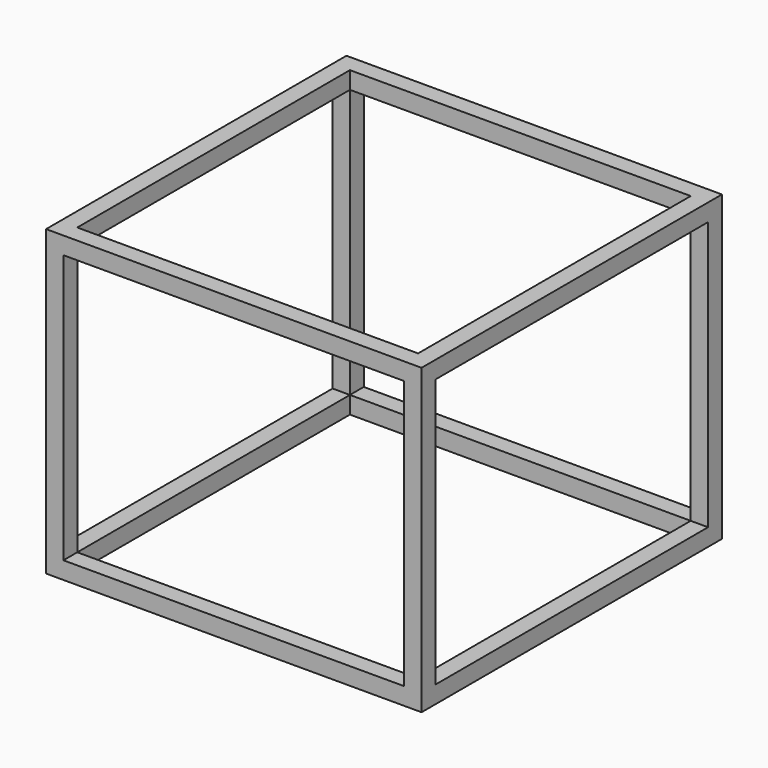
from build123d import *

# Parameters (mm, degrees)
BOX006_W     = 650
BOX006_H     = 30
BOX006_DEPTH = 30
BOX007_W     = 650
BOX007_H     = 30
BOX007_DEPTH = 30
BOX008_W     = 30
BOX008_H     = 650
BOX008_DEPTH = 30
BOX005_W     = 30
BOX005_H     = 650
BOX005_DEPTH = 30
BOX004_W     = 30
BOX004_H     = 30
BOX004_DEPTH = 525
BOX003_W     = 30
BOX003_H     = 30
BOX003_DEPTH = 525
BOX002_W     = 30
BOX002_H     = 30
BOX002_DEPTH = 525
BOX001_W     = 30
BOX001_H     = 30
BOX001_DEPTH = 525
BOX010_W     = 650
BOX010_H     = 30
BOX010_DEPTH = 30
BOX011_W     = 650
BOX011_H     = 30
BOX011_DEPTH = 30
BOX012_W     = 30
BOX012_H     = 650
BOX012_DEPTH = 30
BOX009_W     = 30
BOX009_H     = 650
BOX009_DEPTH = 30


with BuildPart() as box006:
    # Box006 → Box006 (new body)
    with BuildSketch(Plane.XY):
        with Locations((325, 15)):
            Rectangle(BOX006_W, BOX006_H)
    extrude(amount=BOX006_DEPTH)


with BuildPart() as box007:
    # Box007 → Box007 (new body)
    with BuildSketch(Plane(origin=(0, 620, 0), x_dir=(1, 0, 0), z_dir=(0, 0, 1))):
        with Locations((325, 15)):
            Rectangle(BOX007_W, BOX007_H)
    extrude(amount=BOX007_DEPTH)


with BuildPart() as box008:
    # Box008 → Box008 (new body)
    with BuildSketch(Plane(origin=(620, 0, 0), x_dir=(1, 0, 0), z_dir=(0, 0, 1))):
        with Locations((15, 325)):
            Rectangle(BOX008_W, BOX008_H)
    extrude(amount=BOX008_DEPTH)


with BuildPart() as obj1:
    # Box005 → Box005 (new body)
    with BuildSketch(Plane.XY):
        with Locations((15, 325)):
            Rectangle(BOX005_W, BOX005_H)
    extrude(amount=BOX005_DEPTH)

    # Fusion: union Box006, Box007, Box008
    add(box006.part)
    add(box007.part)
    add(box008.part)


with BuildPart() as box004:
    # Box004 → Box004 (new body)
    with BuildSketch(Plane(origin=(0, 620, 0), x_dir=(1, 0, 0), z_dir=(0, 0, 1))):
        with Locations((15, 15)):
            Rectangle(BOX004_W, BOX004_H)
    extrude(amount=BOX004_DEPTH)


with BuildPart() as box003:
    # Box003 → Box003 (new body)
    with BuildSketch(Plane(origin=(620, 620, 0), x_dir=(1, 0, 0), z_dir=(0, 0, 1))):
        with Locations((15, 15)):
            Rectangle(BOX003_W, BOX003_H)
    extrude(amount=BOX003_DEPTH)


with BuildPart() as box002:
    # Box002 → Box002 (new body)
    with BuildSketch(Plane(origin=(620, 0, 0), x_dir=(1, 0, 0), z_dir=(0, 0, 1))):
        with Locations((15, 15)):
            Rectangle(BOX002_W, BOX002_H)
    extrude(amount=BOX002_DEPTH)


with BuildPart() as box001:
    # Box001 → Box001 (new body)
    with BuildSketch(Plane.XY):
        with Locations((15, 15)):
            Rectangle(BOX001_W, BOX001_H)
    extrude(amount=BOX001_DEPTH)


with BuildPart() as box010:
    # Box010 → Box010 (new body)
    with BuildSketch(Plane.XY):
        with Locations((325, 15)):
            Rectangle(BOX010_W, BOX010_H)
    extrude(amount=BOX010_DEPTH)


with BuildPart() as box011:
    # Box011 → Box011 (new body)
    with BuildSketch(Plane(origin=(0, 620, 0), x_dir=(1, 0, 0), z_dir=(0, 0, 1))):
        with Locations((325, 15)):
            Rectangle(BOX011_W, BOX011_H)
    extrude(amount=BOX011_DEPTH)


with BuildPart() as box012:
    # Box012 → Box012 (new body)
    with BuildSketch(Plane(origin=(620, 0, 0), x_dir=(1, 0, 0), z_dir=(0, 0, 1))):
        with Locations((15, 325)):
            Rectangle(BOX012_W, BOX012_H)
    extrude(amount=BOX012_DEPTH)


with BuildPart() as parte_superior:
    # Box009 → Box009 (new body)
    with BuildSketch(Plane.XY):
        with Locations((15, 325)):
            Rectangle(BOX009_W, BOX009_H)
    extrude(amount=BOX009_DEPTH)

    # Fusion001: union Box010, Box011, Box012
    add(box010.part)
    add(box011.part)
    add(box012.part)


with BuildPart() as parte_superior_1:
    # Fusion001 placement: moved
    add(parte_superior.part.moved(Location((0, 0, 495))))

    # Fusion002: union obj1, Box004, Box003, Box002, Box001
    add(obj1.part)
    add(box004.part)
    add(box003.part)
    add(box002.part)
    add(box001.part)


solid = parte_superior_1.part
